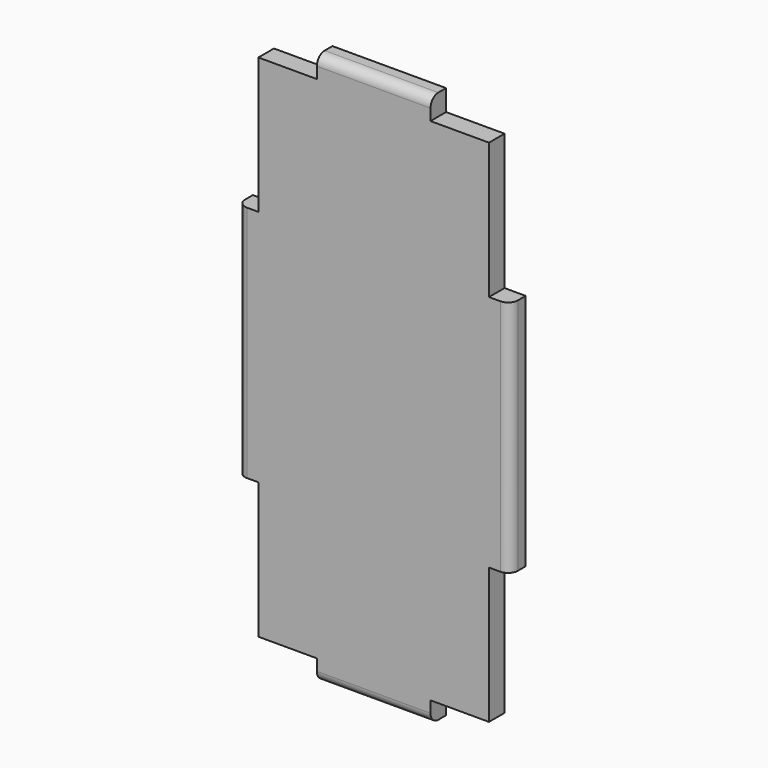
from build123d import *

# Parameters (mm, degrees)
F0_W     = 42
F0_H     = 85
F1_DEPTH = 3
F2_R     = 3
F4_DEPTH = 3
F5_R     = 1.5


with BuildPart() as f1:
    # F0 (on Front) → F1 (new body)
    with BuildSketch(Plane.XZ):
        with Locations((-12.290565, -9.565399)):
            Rectangle(F0_W, F0_H)
    extrude(amount=F1_DEPTH)

    # F2
    f2_edges = [f1.edges().sort_by_distance(p)[0] for p in [
        (-33.290565, -1.5, 32.934601),
        (8.709435, -1.5, 32.934601),
        (8.709435, -1.5, -52.065399),
        (-33.290565, -1.5, -52.065399),
    ]]
    fillet(f2_edges, radius=F2_R)

    # F3 (on face) → F4 (cut, through all)
    with BuildSketch(Plane(origin=(0, 0, 0), x_dir=(-1, 0, 0), z_dir=(0, 1, 0))):
        with BuildLine():
            Line((-5.459435, 8.759601), (-5.459435, 29.684601))
            Line((-5.459435, 29.684601), (3.540565, 29.684601))
            Line((3.540565, 29.684601), (3.540565, 32.934601))
            Line((3.540565, 32.934601), (-5.709435, 32.934601))
            ThreePointArc((-5.709435, 32.934601), (-7.830755, 32.055922), (-8.709435, 29.934601))
            Line((-8.709435, 29.934601), (-8.709435, 8.759601))
            Line((-8.709435, 8.759601), (-5.459435, 8.759601))
        make_face()
        with BuildLine():
            Line((21.040565, 32.934601), (21.040565, 29.684601))
            Line((21.040565, 29.684601), (30.040565, 29.684601))
            Line((30.040565, 29.684601), (30.040565, 8.759601))
            Line((30.040565, 8.759601), (33.290565, 8.759601))
            Line((33.290565, 8.759601), (33.290565, 29.934601))
            ThreePointArc((33.290565, 29.934601), (32.411885, 32.055922), (30.290565, 32.934601))
            Line((30.290565, 32.934601), (21.040565, 32.934601))
        make_face()
        with BuildLine():
            Line((33.290565, -27.890399), (30.040565, -27.890399))
            Line((30.040565, -27.890399), (30.040565, -48.815399))
            Line((30.040565, -48.815399), (21.040565, -48.815399))
            Line((21.040565, -48.815399), (21.040565, -52.065399))
            Line((21.040565, -52.065399), (30.290565, -52.065399))
            ThreePointArc((30.290565, -52.065399), (32.411885, -51.186719), (33.290565, -49.065399))
            Line((33.290565, -49.065399), (33.290565, -27.890399))
        make_face()
        with BuildLine():
            Line((-5.459435, -48.815399), (-5.459435, -27.890399))
            Line((-5.459435, -27.890399), (-8.709435, -27.890399))
            Line((-8.709435, -27.890399), (-8.709435, -49.065399))
            ThreePointArc((-8.709435, -49.065399), (-7.830755, -51.186719), (-5.709435, -52.065399))
            Line((-5.709435, -52.065399), (3.540565, -52.065399))
            Line((3.540565, -52.065399), (3.540565, -48.815399))
            Line((3.540565, -48.815399), (-5.459435, -48.815399))
        make_face()
    extrude(amount=-F4_DEPTH, mode=Mode.SUBTRACT)

    # F5
    f5_edges = [f1.edges().sort_by_distance(p)[0] for p in [
        (-12.290565, -3, 32.934601),
        (8.709435, -3, -9.565399),
        (-12.290565, -3, -52.065399),
        (-33.290565, -3, -9.565399),
    ]]
    fillet(f5_edges, radius=F5_R)


solid = f1.part
